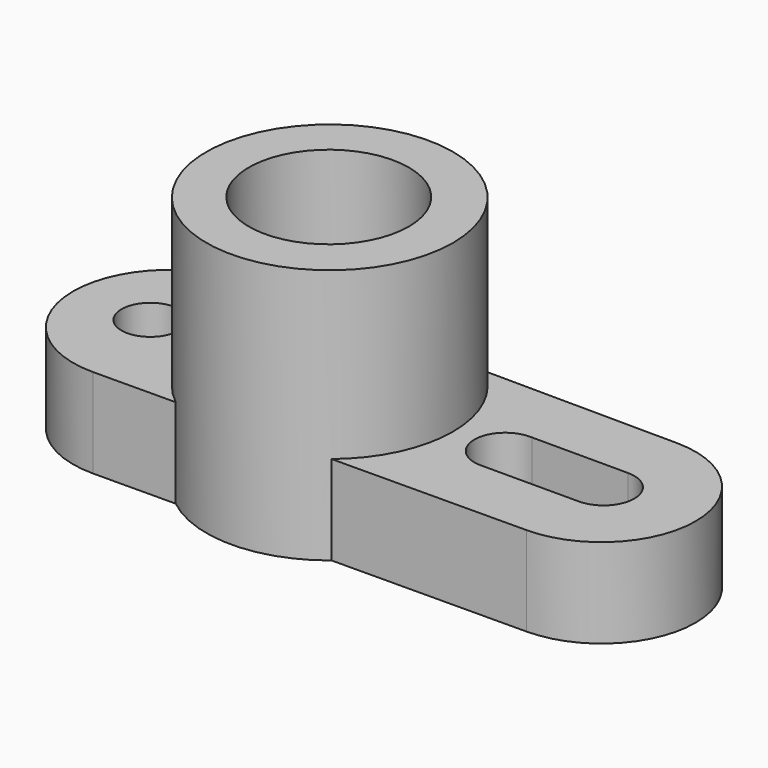
from build123d import *

# Parameters (mm, degrees)
F1_DEPTH = 21.844
F2_R     = 30.1592813174
F3_DEPTH = 62.484
F4_R     = 19.5786544463
F5_DEPTH = 62.738
F7_DEPTH = 23.876
F8_R     = 7.0578530297
F9_DEPTH = 33.02


with BuildPart() as f1:
    # F0 (on Top) → F1 (new body)
    with BuildSketch(Plane.XY):
        with BuildLine():
            Line((-62.3466224072, 23.7019382979), (-61.5820136192, 23.6970914847))
            ThreePointArc((-61.5820136192, 23.6970914847), (-61.9642984681, 23.7025982274), (-62.3466224072, 23.7019382979))
        make_face()
        with BuildLine():
            Line((-41.3086953744, 23.5685800324), (-61.5820136192, 23.6970914847))
            Line((-61.5820136192, 23.6970914847), (-62.3466224072, 23.7019382979))
            ThreePointArc((-62.3466224072, 23.7019382979), (-85.8168487149, -0.1915085468), (-61.9636058746, -23.702593827))
            Line((-61.9636058746, -23.702593827), (-41.3055604078, -23.5710399543))
            ThreePointArc((-41.3055604078, -23.5710399543), (-52.7722777928, -0.0019924377), (-41.3086953744, 23.5685800324))
        make_face()
        with BuildLine():
            ThreePointArc((-4.0190974569, 23.3322033166), (-22.6226378881, 29.9591287907), (-41.3086953744, 23.5685800324))
            Line((-41.3086953744, 23.5685800324), (-4.0190974569, 23.3322033166))
        make_face()
        with BuildLine():
            Line((-4.0190974569, 23.3322033166), (-41.3086953744, 23.5685800324))
            ThreePointArc((-41.3086953744, 23.5685800324), (-52.7722777928, -0.0019924377), (-41.3055604078, -23.5710399543))
            Line((-41.3055604078, -23.5710399543), (-4.020837331, -23.3336046305))
            ThreePointArc((-4.020837331, -23.3336046305), (4.211331439, -12.9342741883), (7.1471835347, 0))
            ThreePointArc((7.1471835347, 0), (4.2118136579, 12.933266629), (-4.0190974569, 23.3322033166))
        make_face()
        with BuildLine():
            Line((43.5569020036, 23.0306216657), (-4.0190974569, 23.3322033166))
            ThreePointArc((-4.0190974569, 23.3322033166), (4.2118136579, 12.933266629), (7.1471835347, 0))
            ThreePointArc((7.1471835347, 0), (4.211331439, -12.9342741883), (-4.020837331, -23.3336046305))
            Line((-4.020837331, -23.3336046305), (43.5569020036, -23.0306216657))
            ThreePointArc((43.5569020036, -23.0306216657), (66.4419965279, 0), (43.5569020036, 23.0306216657))
        make_face()
        with BuildLine():
            Line((-4.020837331, -23.3336046305), (-41.3055604078, -23.5710399543))
            ThreePointArc((-41.3055604078, -23.5710399543), (-22.6217624778, -29.9591232288), (-4.020837331, -23.3336046305))
        make_face()
    extrude(amount=F1_DEPTH)

    # F2 (on Top) → F3 (join)
    with BuildSketch(Plane.XY):
        with Locations((-23.0502411723, 0)):
            Circle(F2_R)
    extrude(amount=F3_DEPTH)

    # F4 (on Top) → F5 (cut)
    with BuildSketch(Plane.XY):
        with Locations((-23.2811495662, 0)):
            Circle(F4_R)
    extrude(amount=F5_DEPTH, mode=Mode.SUBTRACT)

    # F6 (on Top) → F7 (cut)
    with BuildSketch(Plane.XY):
        with BuildLine():
            ThreePointArc((43.913397938, -7.536449256), (49.242472313, -5.329074375), (51.449847194, 0))
            ThreePointArc((51.449847194, 0), (49.2437269469, 5.3278194456), (43.9169469964, 7.5364484203))
            Line((43.9169469964, 7.5364484203), (43.913397938, -7.536449256))
        make_face()
        with BuildLine():
            Line((43.913397938, -7.536449256), (43.9169469964, 7.5364484203))
            ThreePointArc((43.9169469964, 7.5364484203), (36.3769488909, 0.0017745292), (43.913397938, -7.536449256))
        make_face()
        with BuildLine():
            ThreePointArc((43.913397938, -7.536449256), (36.3769488909, 0.0017745292), (43.9169469964, 7.5364484203))
            Line((43.9169469964, 7.5364484203), (20.3525681334, 7.5475453391))
            ThreePointArc((20.3525681334, 7.5475453391), (25.4034820207, 5.1836600837), (27.4600210391, 0))
            ThreePointArc((27.4600210391, 0), (25.2481571439, -5.3438018752), (19.9066354296, -7.5611665607))
            Line((19.9066354296, -7.5611665607), (43.913397938, -7.536449256))
        make_face()
        with BuildLine():
            ThreePointArc((27.4600210391, 0), (25.4034820207, 5.1836600837), (20.3525681334, 7.5475453391))
            ThreePointArc((20.3525681334, 7.5475453391), (12.3409711396, 0.2230703443), (19.9066354296, -7.5611665607))
            ThreePointArc((19.9066354296, -7.5611665607), (25.2481571439, -5.3438018752), (27.4600210391, 0))
        make_face()
    extrude(amount=F7_DEPTH, mode=Mode.SUBTRACT)

    # F8 (on Top) → F9 (cut)
    with BuildSketch(Plane.XY):
        with Locations((-66.9229701161, 0)):
            Circle(F8_R)
    extrude(amount=F9_DEPTH, mode=Mode.SUBTRACT)


solid = f1.part
